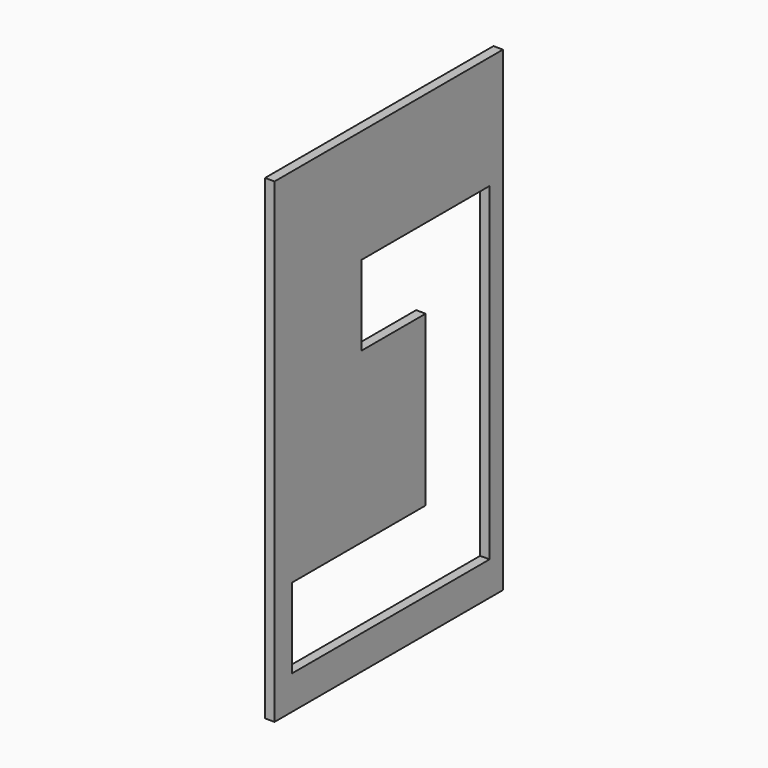
from build123d import *

# Parameters (mm, degrees)
F1_DEPTH = 2.5


with BuildPart() as f1:
    # F0 (on Right) → F1 (new body)
    with BuildSketch(Plane.YZ):
        Polygon((0, 125), (0, 0), (75, 0), (75, 125), (72.5, 125), (44.505585, 125), align=None)
        Polygon((44.505585, 121.19), (72.5, 121.19), (72.5, 3.81), (3.81, 3.81), (3.81, 121.19), align=None, mode=Mode.SUBTRACT)
        Polygon((72.5, 3.81), (72.5, 121.19), (44.505585, 121.19), (3.81, 121.19), (3.81, 3.81), align=None)
        Polygon((5.690006, 8.89), (5.690006, 29.89), (49.619994, 29.89), (49.619994, 74.25), (28.619994, 74.25), (28.619994, 95.25), (70.619994, 95.25), (70.619994, 8.89), align=None, mode=Mode.SUBTRACT)
    extrude(amount=F1_DEPTH)


solid = f1.part
